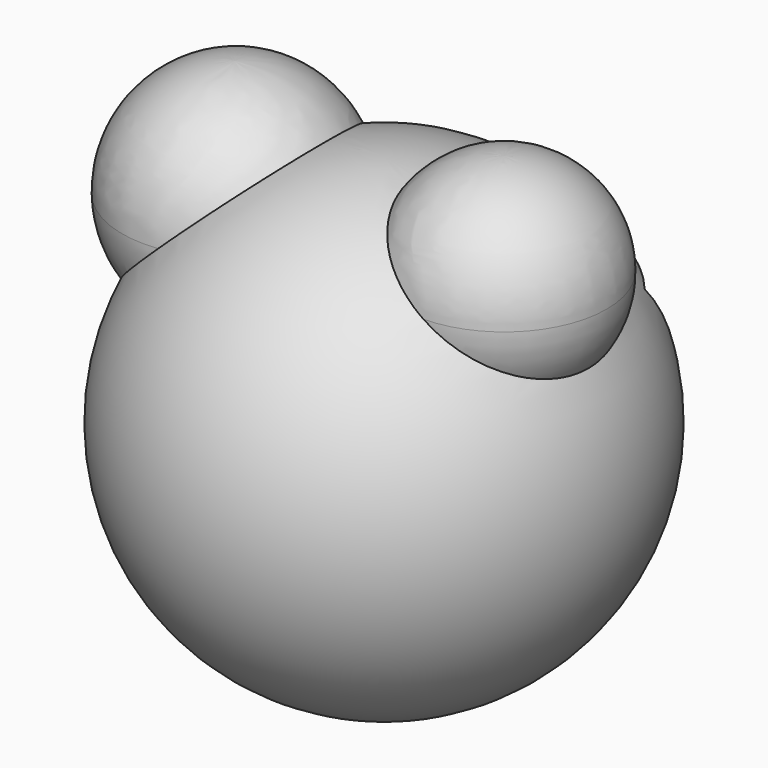
from build123d import *

# Parameters (mm, degrees)
F6_W      = 17.42792
F6_H      = 7.921782
F7_DEPTH  = 41.479525
F8_DEPTH  = 41.479525
F9_W      = 20.370299
F9_H      = 11.543169
F10_DEPTH = 41.479525
F11_W     = 31.460794
F11_H     = 7.695445
F12_DEPTH = 41.479525


with BuildPart() as f1:
    # F0 (on Front) → F1 (revolve)
    with BuildSketch(Plane.XZ):
        with BuildLine():
            Line((0, -41.478525), (0, 41.478525))
            ThreePointArc((0, 41.478525), (-41.478525, 0), (0, -41.478525))
        make_face()
    revolve(axis=Axis((0, 0, 0), (0, 0, 1)))

    # F2 (on Front) → F3 (revolve)
    with BuildSketch(Plane.XZ):
        with BuildLine():
            ThreePointArc((-26.007486, 7.315781), (-12.038548, 13.392183), (-6.291704, 27.499901))
            ThreePointArc((-6.291704, 27.499901), (-12.205125, 41.776163), (-26.481386, 47.689584))
            Line((-26.481386, 47.689584), (-26.007486, 7.315781))
        make_face()
    revolve(axis=Axis((-26.244436, 0, 27.502682), (-0.011737, 0, 0.999931)))

    # F4 (on Front) → F5 (revolve)
    with BuildSketch(Plane.XZ):
        with BuildLine():
            ThreePointArc((21.272967, 12.493089), (34.113778, 17.668541), (39.45263, 30.44228))
            ThreePointArc((39.45263, 30.44228), (34.113778, 43.216018), (21.272967, 48.39147))
            Line((21.272967, 48.39147), (21.272967, 12.493089))
        make_face()
    revolve(axis=Axis((21.272967, 0, 30.44228), (0, 0, 1)))

    # F6 (on Front) → F7 (cut, through all)
    with BuildSketch(Plane.XZ):
        with Locations((-17.314753, 18.333267)):
            Rectangle(F6_W, F6_H)
    extrude(amount=-F7_DEPTH, mode=Mode.SUBTRACT)

    # F6 (on Front) → F8 (cut, through all)
    with BuildSketch(Plane.XZ):
        with Locations((-17.314753, 18.333267)):
            Rectangle(F6_W, F6_H)
    extrude(amount=-F8_DEPTH, mode=Mode.SUBTRACT)

    # F9 (on Front) → F10 (cut, through all)
    with BuildSketch(Plane.XZ):
        with Locations((17.654257, 14.711882)):
            Rectangle(F9_W, F9_H)
    extrude(amount=-F10_DEPTH, mode=Mode.SUBTRACT)

    # F11 (on Front) → F12 (cut, through all)
    with BuildSketch(Plane.XZ):
        with Locations((0.565843, -12.561684)):
            Rectangle(F11_W, F11_H)
    extrude(amount=-F12_DEPTH, mode=Mode.SUBTRACT)


solid = f1.part
